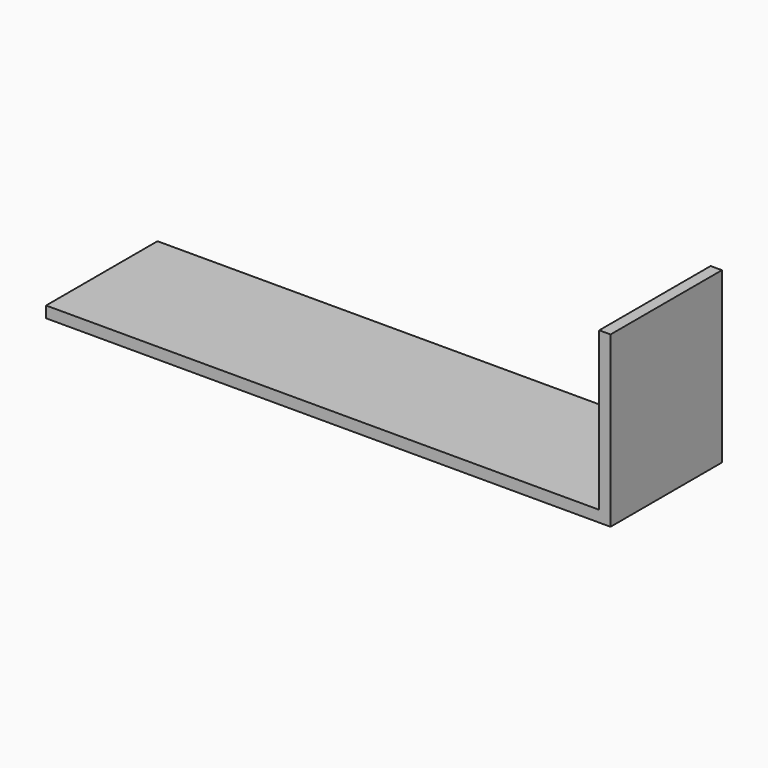
from build123d import *

# Parameters (mm, degrees)
BOX024_W     = 150
BOX024_H     = 37
BOX024_DEPTH = 45
BOX023_W     = 150
BOX023_H     = 37
BOX023_DEPTH = 45


with BuildPart() as obj1:
    # Box024 → Box024 (new body)
    with BuildSketch(Plane(origin=(-3, 0, 3), x_dir=(1, 0, 0), z_dir=(0, 0, 1))):
        with Locations((75, 18.5)):
            Rectangle(BOX024_W, BOX024_H)
    extrude(amount=BOX024_DEPTH)


with BuildPart() as cut018:
    # Box023 → Box023 (new body)
    with BuildSketch(Plane.XY):
        with Locations((75, 18.5)):
            Rectangle(BOX023_W, BOX023_H)
    extrude(amount=BOX023_DEPTH)

    # Cut018: cut obj1
    add(obj1.part, mode=Mode.SUBTRACT)


with BuildPart() as cut018_1:
    # Cut018 placement: moved
    add(cut018.part.moved(Location((10, 30, 0))))


solid = cut018_1.part
